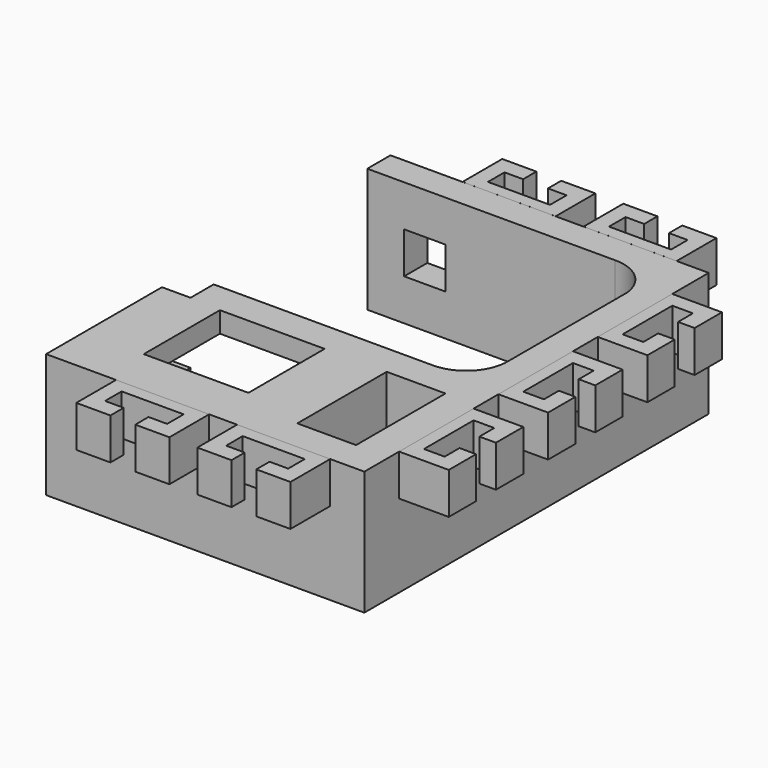
from build123d import *

# Parameters (mm, degrees)
PAD_DEPTH               = 30
POCKET_DEPTH            = 20
POCKET001_DEPTH         = 6.9
SKETCH003_W             = 25.3
SKETCH003_H             = 23
SKETCH003_W_2           = 14.2
SKETCH003_H_2           = 27
POCKET002_DEPTH         = 30
SKETCH004_W             = 10
SKETCH004_H             = 10
POCKET003_DEPTH         = 50
PAD001_DEPTH            = 10
BODY001_PLACEMENT_ANGLE = 90
PAD002_DEPTH            = 10
PAD003_DEPTH            = 10
BODY003_PLACEMENT_ANGLE = 90
PAD004_DEPTH            = 10
BODY004_PLACEMENT_ANGLE = 90
PAD005_DEPTH            = 10
PAD006_DEPTH            = 10
BODY006_PLACEMENT_ANGLE = 180
PAD007_DEPTH            = 10
BODY007_PLACEMENT_ANGLE = 180


with BuildPart() as body:
    # Sketch → Pad (new body)
    with BuildSketch(Plane.XY):
        with BuildLine():
            Line((-35, 42.015359), (-35, 35.015359))
            Line((-35, 35.015359), (24.9, 35.015359))
            ThreePointArc((34.9, 26.231153), (31.573738, 32.528651), (24.9, 35.015359))
            Line((34.9, -9.768847), (34.9, 26.231153))
            ThreePointArc((24.9, -20), (32.054064, -16.989821), (34.9, -9.768847))
            Line((24.9, -20), (-28.1, -20))
            Line((-28.1, -27), (-28.1, -20))
            Line((-35, -27), (-28.1, -27))
            Line((-35, -27), (-35, -62))
            Line((-35, -62), (41.9, -62))
            Line((41.9, -62), (41.9, 42.015359))
            Line((41.9, 42.015359), (-35, 42.015359))
        make_face()
    extrude(amount=PAD_DEPTH)

    # Sketch001 → Pocket (cut)
    with BuildSketch(Plane.XY.offset(5)):
        Polygon((-28.1, -20), (-28.1, -58.5), (12.2, -58.5), (12.2, -20), (-18.1, -20), (-18.1, -13.5), (-24.1, -13.5), (-24.1, -20), align=None)
    extrude(amount=POCKET_DEPTH, mode=Mode.SUBTRACT)

    # Sketch002 → Pocket001 (cut)
    with BuildSketch(Plane.YZ.offset(-35)):
        Polygon((-27, 25.105073), (-27, 15.105073), (-37, 15.105073), (-47, 5), (-57, 5), (-57, 25.105073), align=None)
    extrude(amount=POCKET001_DEPTH, mode=Mode.SUBTRACT)

    # Sketch003 → Pocket002 (cut)
    with BuildSketch(Plane.XY):
        with Locations((-7.95, -39)):
            Rectangle(SKETCH003_W, SKETCH003_H)
        with Locations((26.8, -41)):
            Rectangle(SKETCH003_W_2, SKETCH003_H_2)
    extrude(amount=POCKET002_DEPTH, mode=Mode.SUBTRACT)

    # Sketch004 → Pocket003 (cut)
    with BuildSketch(Plane.XZ):
        with Locations((-21.1, 15)):
            Rectangle(SKETCH004_W, SKETCH004_H)
    extrude(amount=-POCKET003_DEPTH, mode=Mode.SUBTRACT)


with BuildPart() as female7:
    # Sketch005 → Pad001 (new body)
    with BuildSketch(Plane.XY):
        Polygon((0, 0), (22.5, 0), (22.5, -12), (14.25, -12), (14.25, -8), (18.75, -8), (18.75, -3), (3.75, -3), (3.75, -8), (8.25, -8), (8.25, -12), (0, -12), align=None)
    extrude(amount=PAD001_DEPTH)


with BuildPart() as female7_1:
    # Body001 placement: moved
    add(female7.part.moved(Location((41.9, 8.5, 20))).rotate(Axis((41.9, 8.5, 20), (0, 0, 1)), BODY001_PLACEMENT_ANGLE))


with BuildPart() as female1:
    # Sketch006 → Pad002 (new body)
    with BuildSketch(Plane.XY):
        Polygon((0, 0), (22.5, 0), (22.5, -12), (14.25, -12), (14.25, -8), (18.75, -8), (18.75, -3), (3.75, -3), (3.75, -8), (8.25, -8), (8.25, -12), (0, -12), align=None)
    extrude(amount=PAD002_DEPTH)


with BuildPart() as female1_1:
    # Body002 placement: moved
    add(female1.part.moved(Location((-18.1, -62, 20))))


with BuildPart() as female5:
    # Sketch007 → Pad003 (new body)
    with BuildSketch(Plane.XY):
        Polygon((0, 0), (22.5, 0), (22.5, -12), (14.25, -12), (14.25, -8), (18.75, -8), (18.75, -3), (3.75, -3), (3.75, -8), (8.25, -8), (8.25, -12), (0, -12), align=None)
    extrude(amount=PAD003_DEPTH)


with BuildPart() as female5_1:
    # Body003 placement: moved
    add(female5.part.moved(Location((41.9, -51.5, 20))).rotate(Axis((41.9, -51.5, 20), (0, 0, 1)), BODY003_PLACEMENT_ANGLE))


with BuildPart() as female6:
    # Sketch008 → Pad004 (new body)
    with BuildSketch(Plane.XY):
        Polygon((0, 0), (22.5, 0), (22.5, -12), (14.25, -12), (14.25, -8), (18.75, -8), (18.75, -3), (3.75, -3), (3.75, -8), (8.25, -8), (8.25, -12), (0, -12), align=None)
    extrude(amount=PAD004_DEPTH)


with BuildPart() as female6_1:
    # Body004 placement: moved
    add(female6.part.moved(Location((41.9, -21.5, 20))).rotate(Axis((41.9, -21.5, 20), (0, 0, 1)), BODY004_PLACEMENT_ANGLE))


with BuildPart() as female2:
    # Sketch009 → Pad005 (new body)
    with BuildSketch(Plane.XY):
        Polygon((0, 0), (22.5, 0), (22.5, -12), (14.25, -12), (14.25, -8), (18.75, -8), (18.75, -3), (3.75, -3), (3.75, -8), (8.25, -8), (8.25, -12), (0, -12), align=None)
    extrude(amount=PAD005_DEPTH)


with BuildPart() as female2_1:
    # Body005 placement: moved
    add(female2.part.moved(Location((11.15, -62, 20))))


with BuildPart() as female3:
    # Sketch010 → Pad006 (new body)
    with BuildSketch(Plane.XY):
        Polygon((0, 0), (22.5, 0), (22.5, -12), (14.25, -12), (14.25, -8), (18.75, -8), (18.75, -3), (3.75, -3), (3.75, -8), (8.25, -8), (8.25, -12), (0, -12), align=None)
    extrude(amount=PAD006_DEPTH)


with BuildPart() as female3_1:
    # Body006 placement: moved
    add(female3.part.moved(Location((4.9, 42.02, 20))).rotate(Axis((4.9, 42.02, 20), (0, 0, 1)), BODY006_PLACEMENT_ANGLE))


with BuildPart() as female4:
    # Sketch011 → Pad007 (new body)
    with BuildSketch(Plane.XY):
        Polygon((0, 0), (22.5, 0), (22.5, -12), (14.25, -12), (14.25, -8), (18.75, -8), (18.75, -3), (3.75, -3), (3.75, -8), (8.25, -8), (8.25, -12), (0, -12), align=None)
    extrude(amount=PAD007_DEPTH)


with BuildPart() as female4_1:
    # Body007 placement: moved
    add(female4.part.moved(Location((34.15, 42.02, 20))).rotate(Axis((34.15, 42.02, 20), (0, 0, 1)), BODY007_PLACEMENT_ANGLE))


solid = Compound([body.part, female7_1.part, female1_1.part, female5_1.part, female6_1.part, female2_1.part, female3_1.part, female4_1.part])
